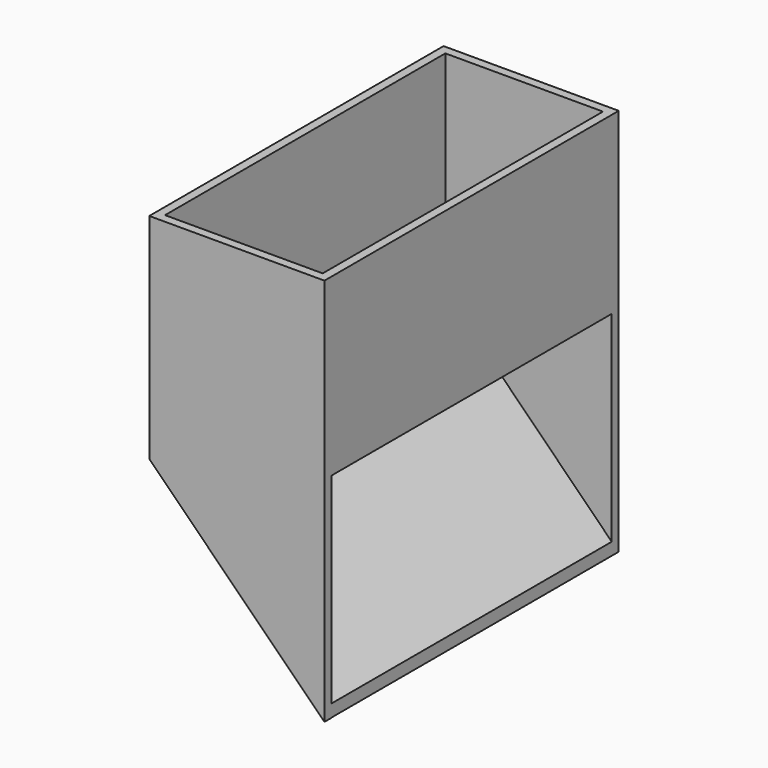
from build123d import *

# Parameters (mm, degrees)
F1_DEPTH = 5
F2_DEPTH = 200
F5_DEPTH = 5


with BuildPart() as f1:
    # F0 (on Front) → F1 (new body)
    with BuildSketch(Plane.XZ):
        Polygon((-100, -14.5512985522), (-100, 0), (-100, 100), (-105, 105), (-105, 200), (-195, 200), (-195, 80.4487014478), align=None)
        Polygon((-100, -21.6223663641), (-100, -14.5512985522), (-195, 80.4487014478), (-195, 200), (-200, 200), (-200, 78.3776336359), align=None)
        Polygon((-105, 105), (-100, 100), (-100, 200), (-105, 200), align=None)
    extrude(amount=-F1_DEPTH)

    # F0 (on Front) → F2 (join)
    with BuildSketch(Plane.XZ):
        Polygon((-100, -21.6223663641), (-100, -14.5512985522), (-195, 80.4487014478), (-195, 200), (-200, 200), (-200, 78.3776336359), align=None)
        Polygon((-105, 105), (-100, 100), (-100, 200), (-105, 200), align=None)
    extrude(amount=F2_DEPTH)

    # F4 (on offset) → F5 (join)
    with BuildSketch(Plane.XZ.offset(200)):
        Polygon((-100, -21.7671551462), (-100, 200), (-200, 200), (-200, 77.8633803129), align=None)
    extrude(amount=F5_DEPTH)


solid = f1.part
